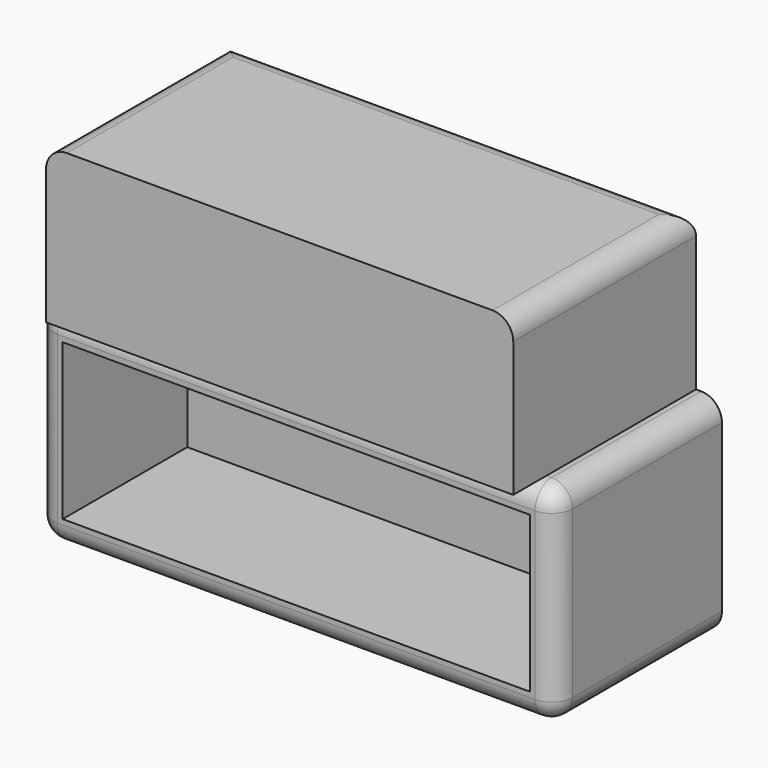
from build123d import *

# Parameters (mm, degrees)
F0_W     = 114.3
F0_H     = 38.1
F1_DEPTH = 50.8
F2_DEPTH = 12.7
F3_R     = 5.08
F4_DEPTH = 55.88
F5_R     = 5.08


with BuildPart() as f1:
    # F0 (on Front) → F1 (new body)
    with BuildSketch(Plane.XZ):
        Polygon((63.5, -25.4), (63.5, 25.4), (57.15, 25.4), (0, 25.4), (-57.15, 25.4), (-63.5, 25.4), (-63.5, -25.4), align=None)
        Rectangle(F0_W, F0_H, mode=Mode.SUBTRACT)
    extrude(amount=F1_DEPTH)

    # F0 (on Front) → F2 (join)
    with BuildSketch(Plane.XZ):
        Rectangle(F0_W, F0_H)
    extrude(amount=F2_DEPTH)

    # F3
    f3_edges = [f1.edges().sort_by_distance(p)[0] for p in [
        (-63.5, -25.4, 25.4),
        (-63.5, -25.4, -25.4),
        (63.5, -25.4, -25.4),
        (63.5, -25.4, 25.4),
        (0, -50.8, 25.4),
        (-63.5, -50.8, 0),
        (0, -50.8, -25.4),
        (63.5, -50.8, 0),
    ]]
    fillet(f3_edges, radius=F3_R)

    # F0 (on Front) → F4 (join)
    with BuildSketch(Plane.XZ):
        Polygon((0, 25.4), (57.15, 25.4), (57.15, 63.5), (-57.15, 63.5), (-57.15, 25.4), align=None)
    extrude(amount=F4_DEPTH)

    # F5
    f5_edges = [f1.edges().sort_by_distance(p)[0] for p in [
        (-57.15, -27.94, 63.5),
        (57.15, -27.94, 63.5),
        (0, 0, 63.5),
    ]]
    fillet(f5_edges, radius=F5_R)


solid = f1.part
